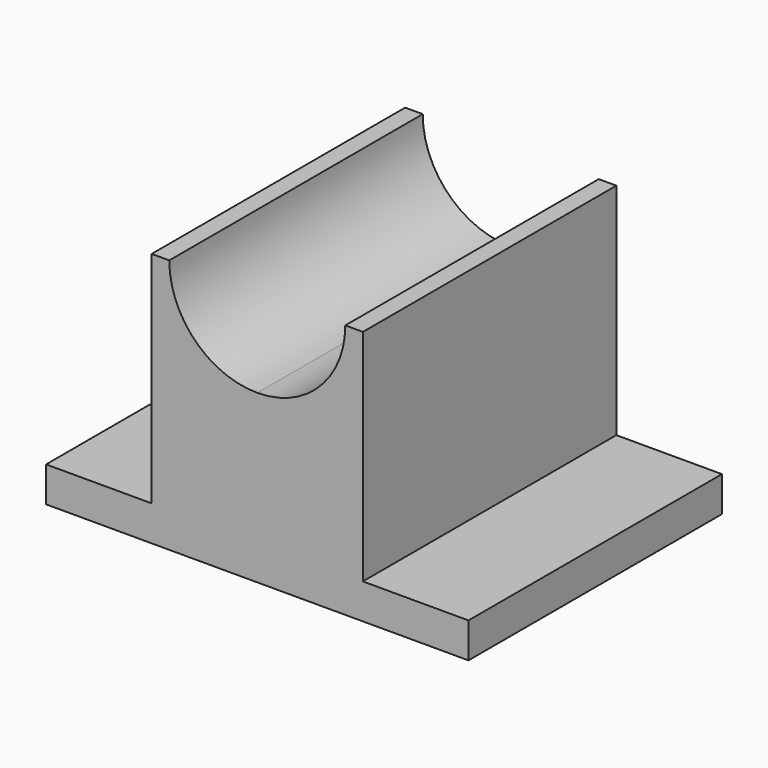
from build123d import *

# Parameters (mm, degrees)
F0_W     = 152.4
F0_H     = 114.3
F1_DEPTH = 12.7
F2_W     = 76.2
F2_H     = 114.3
F3_DEPTH = 79.248
F5_DEPTH = 114.301


with BuildPart() as f1:
    # F0 (on Top) → F1 (new body)
    with BuildSketch(Plane.XY):
        with Locations((24.443777, -7.478296)):
            Rectangle(F0_W, F0_H)
    extrude(amount=F1_DEPTH)

    # F2 (on face) → F3 (join)
    with BuildSketch(Plane.XY.offset(12.7)):
        with Locations((24.443777, -7.478296)):
            Rectangle(F2_W, F2_H)
    extrude(amount=F3_DEPTH)

    # F4 (on face) → F5 (cut, through all)
    with BuildSketch(Plane.XZ.offset(64.628296)):
        with BuildLine():
            Line((56.193777, 91.948), (24.443777, 91.948))
            Line((24.443777, 91.948), (24.443777, 60.198))
            ThreePointArc((24.443777, 60.198), (46.894417, 69.49736), (56.193777, 91.948))
        make_face()
        with BuildLine():
            Line((24.443777, 91.948), (-7.306223, 91.948))
            ThreePointArc((-7.306223, 91.948), (1.993136, 69.49736), (24.443777, 60.198))
            Line((24.443777, 60.198), (24.443777, 91.948))
        make_face()
    extrude(amount=-F5_DEPTH, mode=Mode.SUBTRACT)


solid = f1.part
